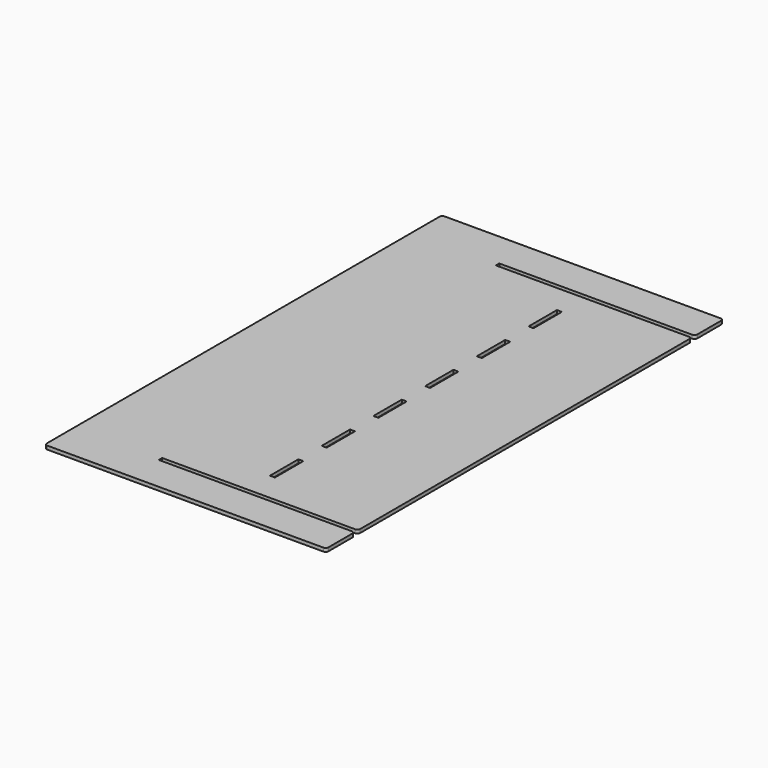
from build123d import *

# Parameters (mm, degrees)
F0_W     = 397
F0_H     = 700
F1_DEPTH = 5
F2_W     = 276
F2_H     = 6
F3_DEPTH = 25
F4_W     = 7
F4_H     = 50
F5_DEPTH = 25
F6_R     = 4


with BuildPart() as f1:
    # F0 (on Top) → F1 (new body)
    with BuildSketch(Plane.XY):
        Rectangle(F0_W, F0_H)
    extrude(amount=F1_DEPTH)

    # F2 (on face) → F3 (cut)
    with BuildSketch(Plane.XY.offset(5)):
        with Locations((60.5, -297)):
            Rectangle(F2_W, F2_H)
        with Locations((60.5, 297)):
            Rectangle(F2_W, F2_H)
    extrude(amount=-F3_DEPTH, mode=Mode.SUBTRACT)

    # F4 (on face) → F5 (cut)
    with BuildSketch(Plane.XY.offset(5)):
        with Locations((45, 45.5714285714)):
            Rectangle(F4_W, F4_H)
        with Locations((45, 136.7142857143)):
            Rectangle(F4_W, F4_H)
        with Locations((45, 227.8571428571)):
            Rectangle(F4_W, F4_H)
        with Locations((45, -45.5714285714)):
            Rectangle(F4_W, F4_H)
        with Locations((45, -136.7142857143)):
            Rectangle(F4_W, F4_H)
        with Locations((45, -227.8571428571)):
            Rectangle(F4_W, F4_H)
    extrude(amount=-F5_DEPTH, mode=Mode.SUBTRACT)

    # F6
    f6_edges = [f1.edges().sort_by_distance(p)[0] for p in [
        (-198.5, -350, 2.5),
        (198.5, -350, 2.5),
        (198.5, -300, 2.5),
        (198.5, -294, 2.5),
        (198.5, 294, 2.5),
        (198.5, 300, 2.5),
        (198.5, 350, 2.5),
        (-198.5, 350, 2.5),
    ]]
    fillet(f6_edges, radius=F6_R)


solid = f1.part
